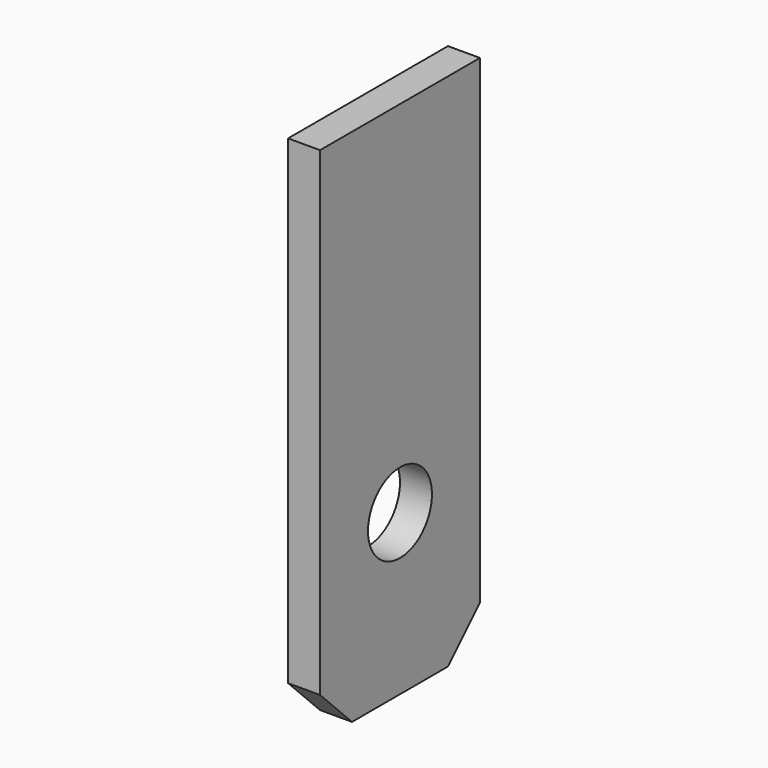
from build123d import *

# Parameters (mm, degrees)
F0_W     = 0.8
F0_H     = 5
F1_DEPTH = 13
F2_R     = 1
F3_DEPTH = 0.8
F4_SIZE  = 1


with BuildPart() as f1:
    # F0 (on Top) → F1 (new body)
    with BuildSketch(Plane.XY):
        with Locations((0.4, 2.5)):
            Rectangle(F0_W, F0_H)
    extrude(amount=F1_DEPTH)

    # F2 (on face) → F3 (cut, through all)
    with BuildSketch(Plane(origin=(0, 0, 0), x_dir=(0, -1, 0), z_dir=(-1, 0, 0))):
        with Locations((-2.5, 4)):
            Circle(F2_R)
    extrude(amount=-F3_DEPTH, mode=Mode.SUBTRACT)

    # F4
    f4_edges = [f1.edges().sort_by_distance(p)[0] for p in [
        (0.4, 5, 0),
        (0.4, 0, 0),
    ]]
    chamfer(f4_edges, length=F4_SIZE)


solid = f1.part
